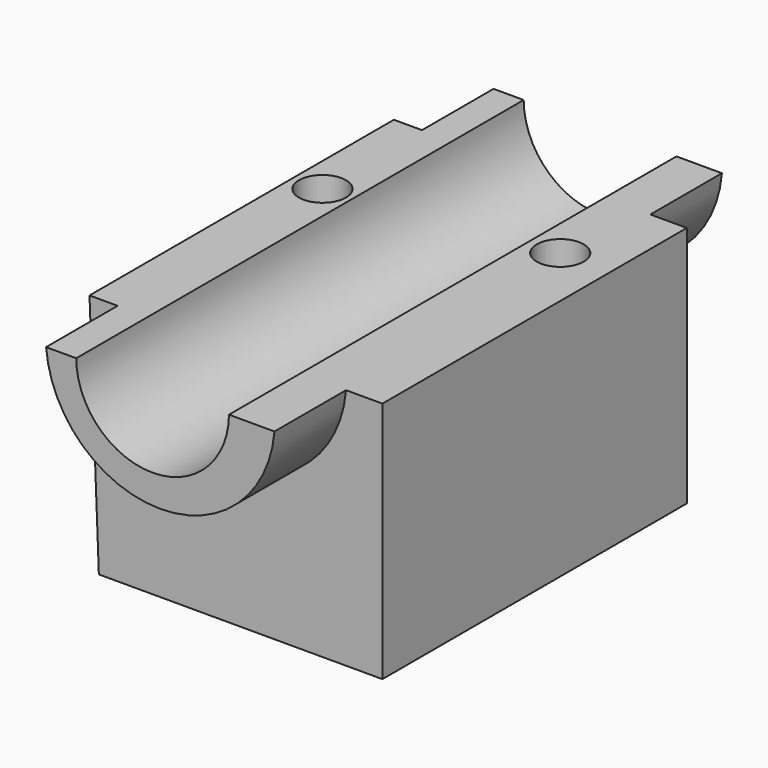
from build123d import *

# Parameters (mm, degrees)
F1_DEPTH = 89.154
F2_DEPTH = 131.064
F3_R     = 11.0199394835
F4_DEPTH = 25.4
F3_R_2   = 11.0346787259
F5_DEPTH = 138.938


with BuildPart() as f1:
    # F0 (on Front) → F1 (new body, symmetric)
    with BuildSketch(Plane.XZ):
        with BuildLine():
            Line((-73.9898234606, 53.6717362702), (-69.6088522673, -60.0099079311))
            Line((-69.6088522673, -60.0099079311), (63.2807761431, -60.0099079311))
            Line((63.2807761431, -60.0099079311), (63.2807761431, 53.6717362702))
            Line((63.2807761431, 53.6717362702), (46.2222844362, 53.6717362702))
            ThreePointArc((46.2222844362, 53.6717362702), (-7.294902578, 4.3339080113), (-60.8120895922, 53.6717362702))
            Line((-60.8120895922, 53.6717362702), (-73.9898234606, 53.6717362702))
        make_face()
        with BuildLine():
            Line((-46.6877035797, 53.6717362702), (-60.8120895922, 53.6717362702))
            ThreePointArc((-60.8120895922, 53.6717362702), (-7.294902578, 4.3339080113), (46.2222844362, 53.6717362702))
            Line((46.2222844362, 53.6717362702), (24.9031372368, 53.6717362702))
            ThreePointArc((24.9031372368, 53.6717362702), (-10.8922831714, 18.0866857546), (-46.6877035797, 53.6717362702))
        make_face()
    extrude(amount=F1_DEPTH, both=True)

    # F0 (on Front) → F2 (join, symmetric)
    with BuildSketch(Plane.XZ):
        with BuildLine():
            Line((-46.6877035797, 53.6717362702), (-60.8120895922, 53.6717362702))
            ThreePointArc((-60.8120895922, 53.6717362702), (-7.294902578, 4.3339080113), (46.2222844362, 53.6717362702))
            Line((46.2222844362, 53.6717362702), (24.9031372368, 53.6717362702))
            ThreePointArc((24.9031372368, 53.6717362702), (-10.8922831714, 18.0866857546), (-46.6877035797, 53.6717362702))
        make_face()
    extrude(amount=F2_DEPTH, both=True)


with BuildPart() as f4:
    # F3 (on Top) → F4 (new body)
    with BuildSketch(Plane.XY):
        with Locations((39.523396641, 44.7258390486)):
            Circle(F3_R)
    extrude(amount=F4_DEPTH)


with BuildPart() as f4b:
    # F3 (on Top) → F4, piece 2 (new body)
    with BuildSketch(Plane.XY):
        with Locations((-60.1624064147, 30.0455577672)):
            Circle(F3_R_2)
    extrude(amount=F4_DEPTH)


with BuildPart() as f5_tool:
    # F3 (on Top) → F5 (new body, symmetric)
    with BuildSketch(Plane.XY):
        with Locations((39.523396641, 44.7258390486)):
            Circle(F3_R)
        with Locations((-60.1624064147, 30.0455577672)):
            Circle(F3_R_2)
    extrude(amount=F5_DEPTH, both=True)


with BuildPart() as f1_1:
    add(f1.part)

    # F5: cut by f5_tool
    add(f5_tool.part, mode=Mode.SUBTRACT)


with BuildPart() as f4_1:
    add(f4.part)

    # F5: cut by f5_tool
    add(f5_tool.part, mode=Mode.SUBTRACT)


with BuildPart() as f4b_1:
    add(f4b.part)

    # F5: cut by f5_tool
    add(f5_tool.part, mode=Mode.SUBTRACT)


solid = f1_1.part
